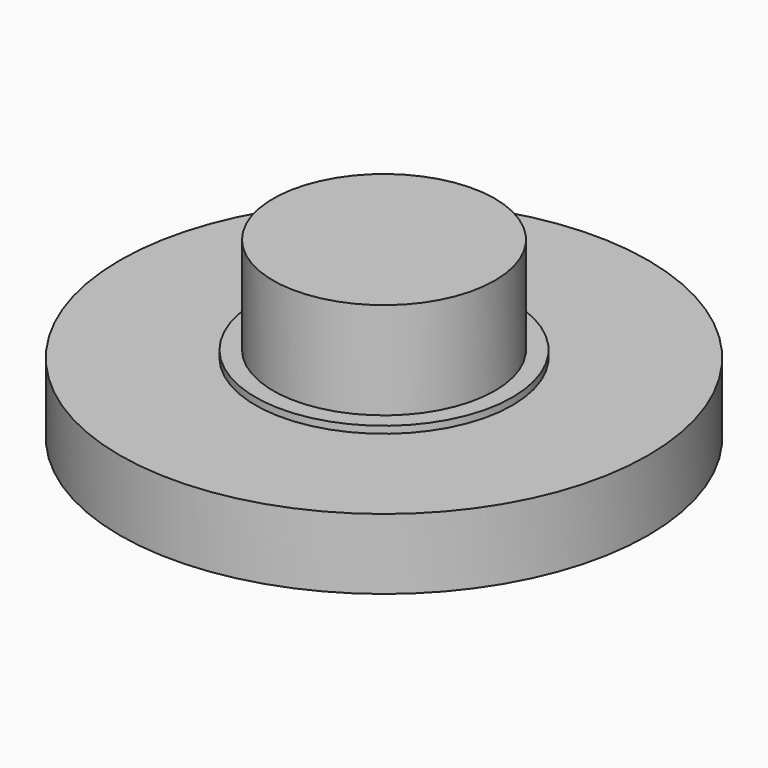
from build123d import *

# Parameters (mm, degrees)
F0_R     = 9.525
F0_R_2   = 4.635
F1_DEPTH = 2.54
F0_R_3   = 4
F2_DEPTH = 2.794
F3_DEPTH = 6.294


with BuildPart() as f1:
    # F0 (on Top) → F1 (new body)
    with BuildSketch(Plane.XY):
        with Locations((-69.424219, 31.217609)):
            Circle(F0_R)
        with Locations((-69.424219, 31.217609)):
            Circle(F0_R_2, mode=Mode.SUBTRACT)
    extrude(amount=F1_DEPTH)

    # F0 (on Top) → F2 (join)
    with BuildSketch(Plane.XY):
        with Locations((-69.424219, 31.217609)):
            Circle(F0_R_2)
        with Locations((-69.424219, 31.217609)):
            Circle(F0_R_3, mode=Mode.SUBTRACT)
    extrude(amount=F2_DEPTH)

    # F0 (on Top) → F3 (join)
    with BuildSketch(Plane.XY):
        with Locations((-69.424219, 31.217609)):
            Circle(F0_R_3)
    extrude(amount=F3_DEPTH)


solid = f1.part
